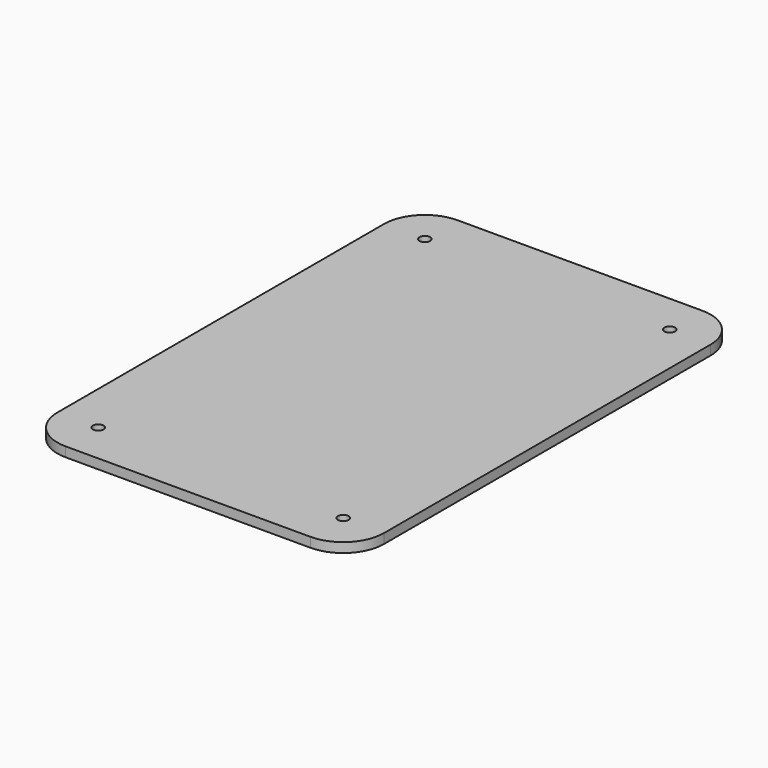
from build123d import *

# Parameters (mm, degrees)
F1_DEPTH = 6
F3_D     = 6.6


with BuildPart() as f1:
    # F0 (on Top) → F1 (new body)
    with BuildSketch(Plane.XY):
        with BuildLine():
            ThreePointArc((-121.2120539201, -97.4925358951), (-113.7725661623, -115.4530481372), (-95.8120539201, -122.8925358951))
            Line((-95.8120539201, -122.8925358951), (56.5879460799, -122.8925358951))
            ThreePointArc((56.5879460799, -122.8925358951), (74.548458322, -115.4530481372), (81.9879460799, -97.4925358951))
            Line((81.9879460799, -97.4925358951), (81.9879460799, 156.5074641049))
            ThreePointArc((81.9879460799, 156.5074641049), (74.548458322, 174.467976347), (56.5879460799, 181.9074641049))
            Line((56.5879460799, 181.9074641049), (-95.8120539201, 181.9074641049))
            ThreePointArc((-95.8120539201, 181.9074641049), (-113.7725661623, 174.467976347), (-121.2120539201, 156.5074641049))
            Line((-121.2120539201, 156.5074641049), (-121.2120539201, -97.4925358951))
        make_face()
    extrude(amount=F1_DEPTH)

    # F3 (through all)
    with Locations(Plane.XY.offset(6)):
        with Locations((-95.8120539201, 156.5074641049), (56.5879460799, 156.5074641049), (56.5879460799, -97.4925358951), (-95.8120539201, -97.4925358951)):
            Hole(F3_D / 2)


solid = f1.part
